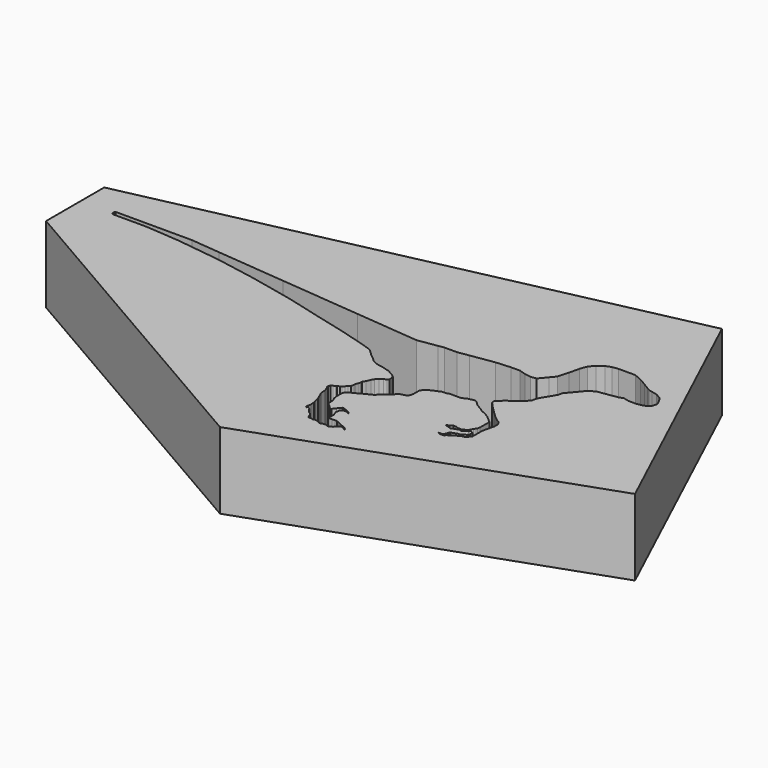
from build123d import *

# Parameters (mm, degrees)
F0_W     = 53.9140254259
F0_H     = 31.18946217
F1_DEPTH = 6.35
F3_DEPTH = 25.4


with BuildPart() as f1:
    # F0 (on Top) → F1 (new body)
    with BuildSketch(Plane.XY):
        with Locations((-26.957012713, -26.5021333471)):
            Rectangle(F0_W, F0_H)
        Polygon((-51.2459278107, -22.8126384318), (-51.1818937957, -22.6741544902), (-48.0706617236, -22.6741544902), (-44.841285795, -22.6741544902), (-42.3798710108, -22.9104515165), (-36.6496965289, -23.4421156347), (-29.9165913898, -24.0668349024), (-24.6263943561, -24.5576764902), (-23.0233035982, -24.3085362017), (-22.5365706809, -24.2328918386), (-21.5140171349, -24.2328918386), (-20.5979031908, -24.0905163111), (-18.6706691929, -23.7910001222), (-17.432237044, -23.7033162266), (-16.6714005172, -23.7033162266), (-16.1161981523, -23.8781031221), (-15.6226828694, -23.9603556693), (-15.1522017846, -23.8872370435), (-14.6356523037, -23.2714898884), (-14.2727560575, -22.8389033901), (-14.0187582001, -21.9143237919), (-13.8234086335, -21.071234718), (-13.6177772656, -20.5160304904), (-13.2547118211, -20.0832423011), (-12.7849699929, -19.7449140251), (-12.3325809836, -19.5804089308), (-11.8467028729, -19.5048974152), (-11.2427351996, -19.5048974152), (-10.4407733306, -19.5048974152), (-9.7621902823, -19.7963211685), (-9.1761406511, -20.1458949596), (-8.7172796975, -20.4196017492), (-8.4112837126, -20.6021258406), (-8.1427305816, -20.6643514575), (-7.6388999169, -20.7810925055), (-7.152485486, -21.071234718), (-6.945041474, -21.4310903102), (-6.7702550441, -21.801225841), (-6.8561979222, -22.1721378565), (-7.0497886351, -22.402905547), (-7.3871491477, -22.5517805666), (-7.9022631761, -22.6318357082), (-8.4975576028, -22.6318357082), (-8.988767182, -22.518019053), (-9.2892386019, -22.6318357082), (-9.6942553667, -22.6947803625), (-10.4373526195, -22.8102669393), (-10.8899941142, -22.8806130704), (-11.4072402939, -23.1069847941), (-12.0373180803, -23.8580621232), (-12.5395014723, -24.4566843391), (-12.6223076816, -24.8140591287), (-13.0743974742, -25.5719736607), (-13.3609035306, -26.0522921887), (-13.4613008195, -26.4855865072), (-13.8234086335, -26.9172331635), (-14.2486644909, -27.2632203996), (-14.5365484059, -27.4482890964), (-14.7730242461, -27.5716669858), (-15.3140667826, -28.1182769686), (-15.3140667826, -28.3171292394), (-14.9552691728, -28.732124716), (-13.9452088624, -29.7173466533), (-13.5644214148, -30.0367887438), (-13.2311873208, -30.2355601436), (-13.0743974742, -30.5360759888), (-13.0743974742, -30.8472607285), (-13.1653173103, -31.2396522847), (-13.3073674853, -31.8527120037), (-13.3073674853, -32.5812511146), (-13.3073674853, -32.9140909016), (-13.5991758267, -33.1663831345), (-13.6699366001, -33.2507327399), (-13.8989816937, -33.2863292028), (-14.1324183963, -33.4081214656), (-14.3951711514, -33.5452089597), (-14.5152351983, -33.6490141709), (-14.5899329458, -33.7380568032), (-14.7213094427, -33.7584743486), (-14.8571066242, -33.9203498925), (-15.2418417856, -33.9203498925), (-15.4001931474, -33.8258946059), (-15.0573505089, -33.8258946059), (-14.9121181853, -33.6527720042), (-14.8631233829, -33.4413203827), (-14.7730242461, -33.3339186929), (-14.5560912788, -33.2591161132), (-14.3541954458, -33.1825353205), (-14.0795744073, -33.1398557876), (-13.870340772, -32.9945608974), (-13.7161056011, -32.9140909016), (-13.6854452681, -32.7817671283), (-13.6290863141, -32.7523626496), (-13.6290863141, -32.4933044612), (-13.6838107287, -32.4300086535), (-13.752689674, -32.3889229284), (-13.8544462138, -32.3653452347), (-13.9867735879, -32.4797530975), (-14.1813263729, -32.581258232), (-14.3541954458, -32.7307177169), (-14.5071224991, -32.6952834615), (-14.5672855785, -32.6593966789), (-14.6827421551, -32.6773400702), (-14.6943213286, -32.7273134325), (-14.8758561704, -32.75552621), (-15.0013910784, -32.8210222539), (-15.1090369121, -32.9140909016), (-15.2020349006, -32.8586183653), (-15.5342435464, -32.7474139631), (-15.6336343156, -32.7243844348), (-15.6437342231, -32.6593966789), (-15.4260987541, -32.6255734139), (-15.2272267789, -32.4536322883), (-15.0260217488, -32.4536322883), (-14.8783053605, -32.4878591966), (-14.7730242461, -32.5506585165), (-14.6356523037, -32.5293092042), (-14.5210073029, -32.5558732434), (-14.4607070042, -32.5244124244), (-14.3541954458, -32.4688415414), (-14.1324183963, -32.3847196356), (-14.0073806756, -32.1750977703), (-13.9110324897, -32.0135730215), (-13.8234086335, -31.866674341), (-13.7611628955, -31.7623212897), (-13.720643148, -31.5874462847), (-13.720643148, -30.8990180492), (-13.720643148, -30.5996593088), (-14.3402721733, -30.0635918975), (-14.5178018138, -29.9591626972), (-14.726659283, -29.8408102244), (-15.0817176327, -29.694609344), (-15.2975376695, -29.5275226235), (-15.5829768628, -29.3604359031), (-15.8336069435, -29.2003117502), (-16.1817036569, -28.8731008768), (-16.341550155, -28.8072815579), (-16.4810661227, -28.8072815579), (-16.5994185954, -28.8591776043), (-16.8604925275, -28.9113912731), (-17.0449838042, -28.9984159172), (-17.278207466, -29.1063264012), (-17.7411772311, -29.1063264012), (-18.054176122, -29.1063264012), (-18.2351861149, -29.1063264012), (-18.3709450066, -29.1807930917), (-18.5275878757, -29.1807930917), (-18.7329649925, -29.1807930917), (-18.833912909, -29.2086414993), (-18.987076357, -29.306108132), (-19.0915036947, -29.306108132), (-19.2794762552, -29.4035747647), (-19.6136496961, -29.5567382127), (-19.7807364166, -29.661167413), (-19.8990888894, -29.7586340457), (-20.0452897698, -30.0162248313), (-20.0452897698, -30.1763489842), (-20.0452897698, -30.5940657854), (-20.0766194612, -30.7785589248), (-20.1596679062, -30.9802474765), (-20.3237682581, -31.0605168343), (-20.532624796, -31.1231743544), (-20.7414831966, -31.178869307), (-20.9398977458, -31.3633605838), (-21.204451099, -31.6244326532), (-21.7614080757, -32.0699959993), (-21.9221360632, -32.2776026846), (-22.4993731827, -32.5573310256), (-23.143351078, -32.9089090228), (-23.5073861981, -33.0853199583), (-23.6943000259, -33.2697741684), (-23.7490385771, -33.5250422359), (-23.7490385771, -33.9779220521), (-23.6899331212, -34.2979282141), (-23.5546102647, -34.5771754853), (-23.5546102647, -34.7446016967), (-23.5546102647, -35.0046046078), (-23.484751084, -35.1487634444), (-23.2649097965, -35.3189633957), (-23.0426052521, -35.5442322756), (-22.8983684036, -35.5751617851), (-22.6860607439, -35.3009314523), (-22.579045449, -35.1627035619), (-22.4931623228, -35.0517713502), (-22.4072293684, -34.966969196), (-22.323558107, -34.966969196), (-22.2110934463, -35.054038736), (-22.0631762001, -35.0857574536), (-21.9810411194, -35.1493459947), (-21.847548298, -35.1779716027), (-21.6405865901, -35.3382002522), (-21.6597994791, -35.3848600031), (-21.8224767596, -35.2866761386), (-21.8914991519, -35.258255079), (-22.0391601324, -35.258255079), (-22.1407301724, -35.258255079), (-22.2648736089, -35.3408455849), (-22.3350460988, -35.4314849206), (-22.3610436072, -35.5527218474), (-22.3971709214, -35.7211981676), (-22.314529866, -36.0044389963), (-22.2546772361, -36.1279486826), (-22.2546772361, -36.2707823515), (-22.2546772361, -36.4035107195), (-22.3350460988, -36.5073203512), (-22.3534684628, -36.5615338087), (-22.3534684628, -36.6122089326), (-22.3025515036, -36.6516285707), (-22.2273655236, -36.6840995848), (-21.9786949456, -36.6840995848), (-21.6982048005, -36.6746708751), (-21.565221569, -36.6702006279), (-21.3212650269, -36.784093827), (-21.1406946182, -36.8788912892), (-20.9691524506, -36.9285494089), (-20.9034160911, -36.9794421475), (-20.7614973187, -37.027861923), (-20.5583553761, -37.1362008154), (-20.4669422502, -37.2069723695), (-20.3747107176, -37.2783775298), (-20.4113662346, -37.3257241711), (-20.5132141709, -37.2761450708), (-20.5854419619, -37.2174568474), (-20.6646535721, -37.1561316417), (-20.7569841295, -37.1226593852), (-20.8151475823, -37.1246145566), (-20.8743549883, -37.1136292815), (-20.9194961935, -37.1316857636), (-20.9649275431, -37.190367839), (-21.0368670523, -37.2400283813), (-21.1090948433, -37.3122580349), (-21.2347426992, -37.4745529487), (-21.3754363358, -37.5469997525), (-21.4214651499, -37.6064535519), (-21.5495206663, -37.6107581534), (-21.6688625515, -37.6107581534), (-21.7049773782, -37.5650562346), (-21.7839758843, -37.5357121229), (-21.9487473369, -37.5357121229), (-22.0299116551, -37.5384404712), (-22.0999736339, -37.574082613), (-22.1473742276, -37.6079417765), (-22.2468039122, -37.6112841172), (-22.3141370185, -37.6135475277), (-22.3730877042, -37.5560261309), (-22.4535730494, -37.4937148063), (-22.549143061, -37.4657437205), (-22.6236283779, -37.4476835132), (-22.6935986429, -37.4363958836), (-22.7881394901, -37.4395738854), (-22.8335410357, -37.4679975212), (-22.9819645194, -37.4729867943), (-23.0387598611, -37.4290161439), (-23.2306743804, -37.4354673734), (-23.3210809529, -37.4354673734), (-23.4542507678, -37.1881127357), (-23.4881080687, -37.0662286878), (-23.6370787024, -36.8946865201), (-23.7905625254, -36.8066579103), (-23.8700469251, -36.7151302994), (-23.9214748144, -36.6148017347), (-24.0039286991, -36.5198547122), (-24.0388456732, -36.4342331886), (-24.1136522445, -36.3913288724), (-24.1864867799, -36.3495555913), (-24.2645857908, -36.3521808988), (-24.2952911355, -36.4057177398), (-24.3812993424, -36.3563888742), (-24.3881572563, -36.152376094), (-24.3573828231, -36.0987187923), (-24.3277586997, -36.0008627176), (-24.3458151817, -35.8248054981), (-24.3502916819, -35.6916362499), (-24.3277586997, -35.5945788324), (-24.3706442416, -35.5088077486), (-24.3999864906, -35.3778935969), (-24.4631860405, -35.1950675249), (-24.4698707199, -34.9962082184), (-24.5963558555, -34.779753536), (-24.6618129313, -34.5946699381), (-24.7430689633, -34.4276428223), (-24.8001761319, -34.266169061), (-24.833355099, -34.1658182442), (-24.8380540321, -34.0260319441), (-24.8445718225, -33.8321373388), (-24.9035615913, -33.6653404186), (-24.9880670763, -33.4263963624), (-25.0699128956, -33.3012789488), (-25.0736972436, -33.1887002019), (-24.9989512413, -33.0583755016), (-24.8622577637, -32.9672247171), (-24.7268304229, -32.8724235296), (-24.642786708, -32.7994382943), (-24.4514606893, -32.7550545335), (-24.3411398705, -32.659249738), (-24.191744839, -32.5295121183), (-24.0683607616, -32.3701412474), (-23.9330269089, -32.2526146353), (-23.8691214472, -32.0282615721), (-23.853322491, -31.8251177669), (-23.7767107149, -31.6915399639), (-23.7291809171, -31.4865484834), (-23.7335639067, -31.3561610388), (-23.5871220297, -31.1008297417), (-23.4470404685, -30.7890959084), (-23.3191733543, -30.5661509641), (-23.128378726, -30.3197082569), (-22.8692162782, -30.1864426583), (-22.6593017578, -30.0622992218), (-22.549143061, -29.9666352163), (-22.5396752357, -29.8365876079), (-22.5803032517, -29.6627897769), (-22.6350749713, -29.5079196306), (-22.8016956978, -29.3789227536), (-23.1398198139, -29.1849961541), (-23.3618161368, -29.0576731092), (-23.559898138, -29.014993459), (-24.0022949874, -28.8773085922), (-24.3088147964, -28.8534698489), (-24.6618129313, -28.7441387773), (-24.9683447182, -28.5793673247), (-25.2753142267, -28.2859392464), (-25.6392363897, -28.0041926505), (-25.9073097259, -27.7464855462), (-26.1217392981, -27.5546293706), (-26.4287088066, -27.4056587368), (-27.1848458797, -27.1641463041), (-29.2158257216, -26.5834275633), (-31.6422730684, -25.9665325284), (-34.6856191754, -25.1645706594), (-38.3664146066, -24.3626087904), (-41.7696125805, -23.7457156181), (-45.450411737, -23.2727639377), (-48.3073973594, -23.0505696624), (-51.125831902, -23.0505696624), (-51.2153915342, -22.9474402533), align=None, mode=Mode.SUBTRACT)
    extrude(amount=-F1_DEPTH)

    # F2 (on face) → F3 (cut)
    with BuildSketch(Plane.XY):
        Polygon((-53.9140254259, -10.9074022621), (-53.9140254259, -20.4488690943), (-10.1092271507, -10.9074022621), align=None)
        Polygon((-10.1092271507, -10.9074022621), (0, -32.5919948518), (0, -10.9074022621), align=None)
        Polygon((0, -32.5919948518), (-26.957012713, -42.0968644321), (0, -42.0968644321), align=None)
        Polygon((-26.957012713, -42.0968644321), (-53.9140254259, -26.5021333471), (-53.9140254259, -42.0968644321), align=None)
    extrude(amount=-F3_DEPTH, mode=Mode.SUBTRACT)


solid = f1.part
